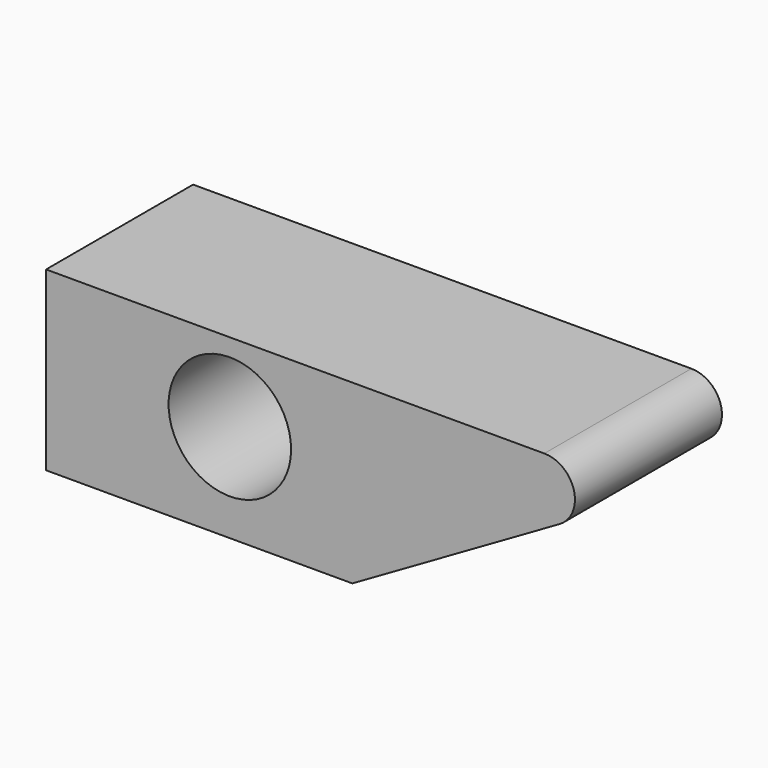
from build123d import *

# Parameters (mm, degrees)
F1_DEPTH = 30
F2_R     = 10
F3_DEPTH = 30
F4_R     = 5


with BuildPart() as f1:
    # F0 (on Front) → F1 (new body)
    with BuildSketch(Plane.XZ):
        Polygon((0, 28.867513), (0, 0), (50, 0), (100, 28.867513), align=None)
    extrude(amount=F1_DEPTH)

    # F2 (on face) → F3 (cut, through all)
    with BuildSketch(Plane.XZ.offset(30)):
        with Locations((30, 16)):
            Circle(F2_R)
    extrude(amount=-F3_DEPTH, mode=Mode.SUBTRACT)

    # F4
    f4_edges = [f1.edges().sort_by_distance(p)[0] for p in [
        (100, -15, 28.867513),
    ]]
    fillet(f4_edges, radius=F4_R)


solid = f1.part
